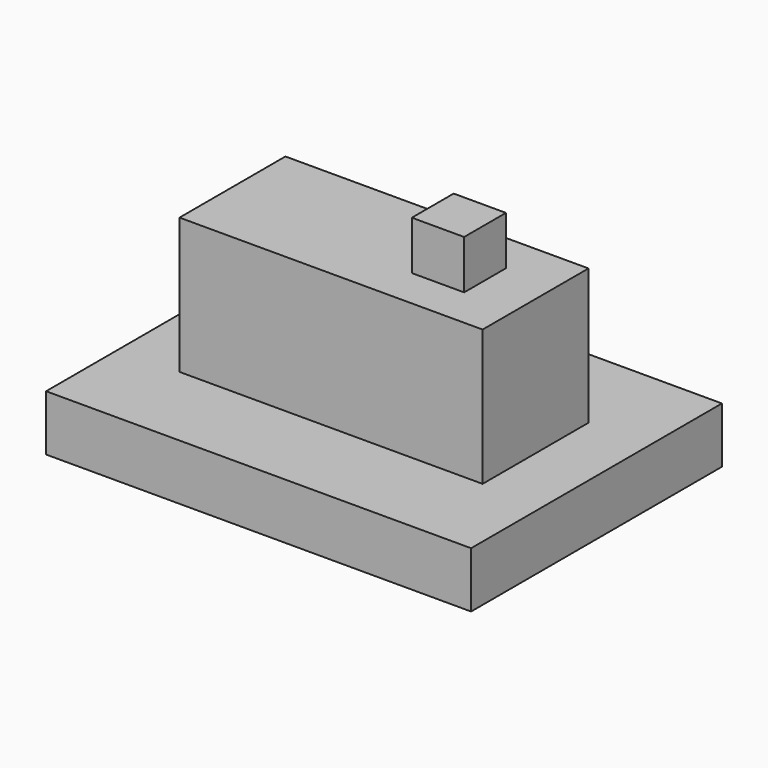
from build123d import *

# Parameters (mm, degrees)
SKETCH_W     = 12.2
SKETCH_H     = 9
PAD_DEPTH    = 1.6
SKETCH001_W  = 8.7
SKETCH001_H  = 3.8
PAD001_DEPTH = 3.9
SKETCH002_W  = 1.5
SKETCH002_H  = 1.5
PAD002_DEPTH = 1.4


with BuildPart() as part:
    # Sketch → Pad (new body)
    with BuildSketch(Plane.XY):
        Rectangle(SKETCH_W, SKETCH_H)
    extrude(amount=PAD_DEPTH)

    # Sketch001 → Pad001 (new body)
    with BuildSketch(Plane.XY.offset(1.6)):
        Rectangle(SKETCH001_W, SKETCH001_H)
    extrude(amount=PAD001_DEPTH)

    # Sketch002 → Pad002 (new body)
    with BuildSketch(Plane.XY.offset(5.5)):
        with Locations((2.15, 0)):
            Rectangle(SKETCH002_W, SKETCH002_H)
    extrude(amount=PAD002_DEPTH)


solid = part.part
